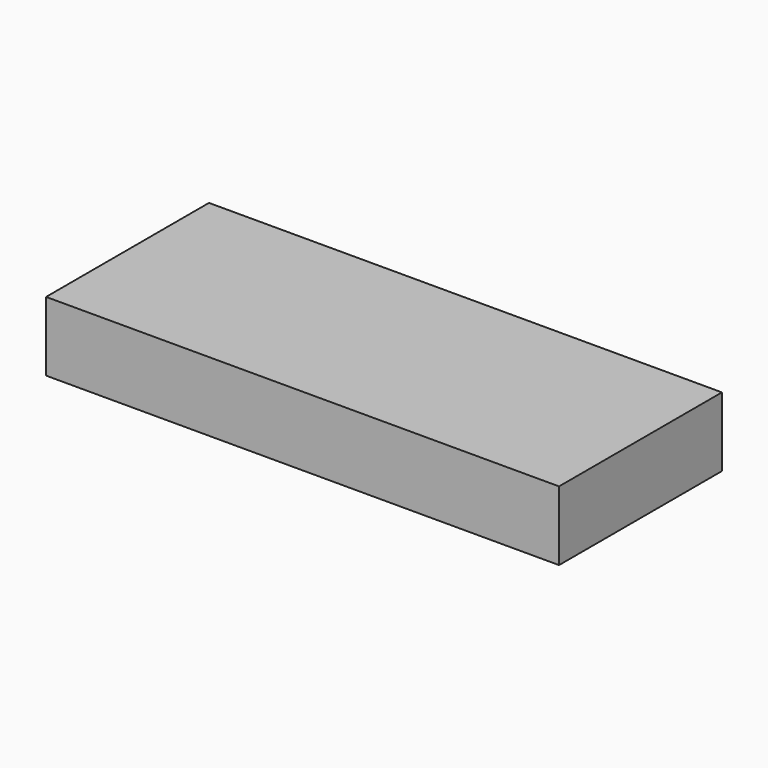
from build123d import *

# Parameters (mm, degrees)
F0_W     = 39
F0_H     = 15.48
F1_DEPTH = 1.27
F2_W     = 39
F2_H     = 15.48
F2_W_2   = 38.232864
F2_H_2   = 14.735129
F3_DEPTH = 4


with BuildPart() as f1:
    # F0 (on Top) → F1 (new body)
    with BuildSketch(Plane.XY):
        with Locations((-3.29186, 5.037934)):
            Rectangle(F0_W, F0_H)
    extrude(amount=F1_DEPTH)

    # F2 (on face) → F3 (join)
    with BuildSketch(Plane(origin=(0, 0, 0), x_dir=(1, 0, 0), z_dir=(0, 0, -1))):
        with Locations((-3.29186, -5.037934)):
            Rectangle(F2_W, F2_H)
        with Locations((-3.244971, -5.063085)):
            Rectangle(F2_W_2, F2_H_2, mode=Mode.SUBTRACT)
    extrude(amount=F3_DEPTH)


solid = f1.part
